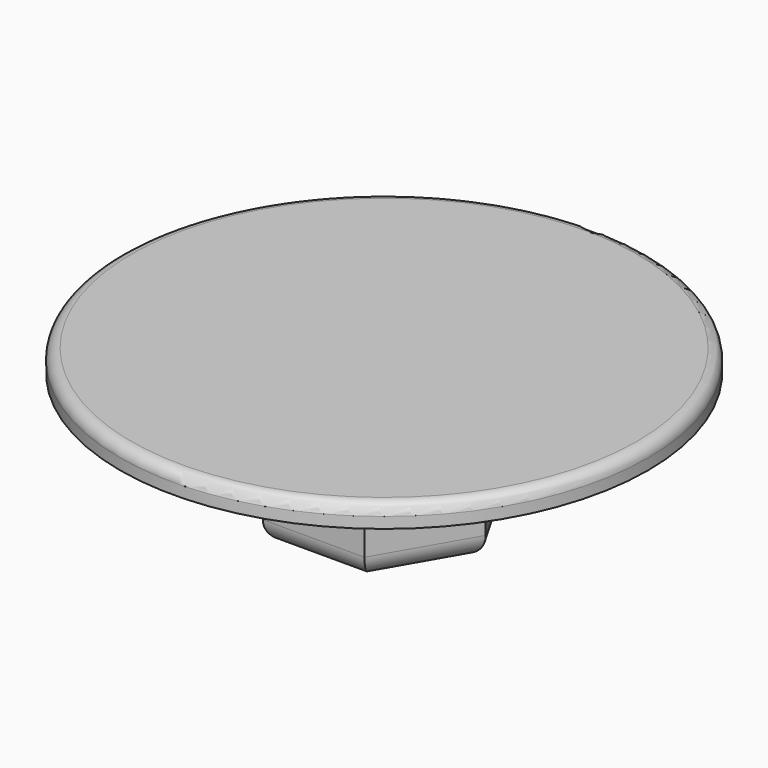
from build123d import *

# Parameters (mm, degrees)
F0_R     = 6
F1_DEPTH = 0.5
F3_DEPTH = 3
F4_R     = 0.5
F5_R     = 0.25


with BuildPart() as f1:
    # F0 (on Top) → F1 (new body)
    with BuildSketch(Plane.XY):
        Circle(F0_R)
    extrude(amount=F1_DEPTH)

    # F2 (on face) → F3 (join)
    with BuildSketch(Plane(origin=(0, 0, 0), x_dir=(1, 0, 0), z_dir=(0, 0, -1))):
        Polygon((-1.154701, -2), (1.154701, -2), (2.309401, 0), (1.154701, 2), (-1.154701, 2), (-2.309401, 0), align=None)
    extrude(amount=F3_DEPTH)

    # F4
    f4_edges = [f1.edges().sort_by_distance(p)[0] for p in [
        (-1.732051, 1, -3),
        (0, 2, -3),
        (1.732051, 1, -3),
        (1.732051, -1, -3),
        (0, -2, -3),
        (-1.732051, -1, -3),
    ]]
    fillet(f4_edges, radius=F4_R)

    # F5
    f5_edges = [f1.edges().sort_by_distance(p)[0] for p in [
        (-6, 0, 0.5),
    ]]
    fillet(f5_edges, radius=F5_R)


solid = f1.part
